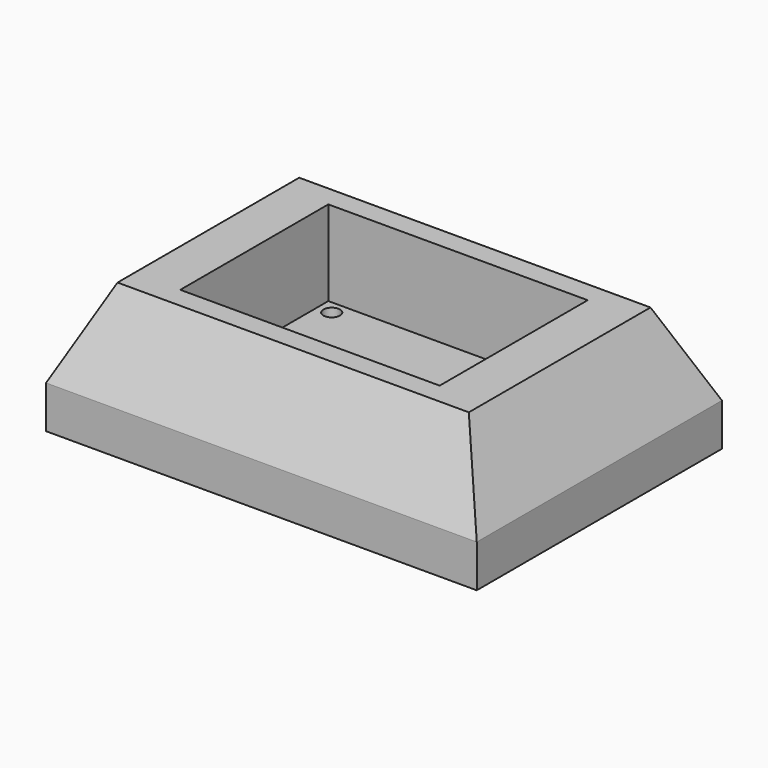
from build123d import *

# Parameters (mm, degrees)
F0_W      = 128.5392045975
F0_H      = 91.4615094662
F1_DEPTH  = 12.7
F1_FACE_W = 128.5392045975
F1_FACE_H = 91.4615094662
F2_DEPTH  = 25.4
F2_TAPER  = 25
F3_W      = 128.0312045975
F3_H      = 90.9535094662
F4_DEPTH  = 0.508
F5_W      = 77.4115473032
F5_H      = 55.2224069834
F6_DEPTH  = 25.4
F7_R      = 2.4747052008
F8_DEPTH  = 45.573990792


with BuildPart() as f1:
    # F0 (on Top) → F1 (new body)
    with BuildSketch(Plane.XY):
        Rectangle(F0_W, F0_H)
    extrude(amount=F1_DEPTH)

    # F1_face (on face) → F2 (join)
    with BuildSketch(Plane.XY.offset(12.7)):
        Rectangle(F1_FACE_W, F1_FACE_H)
    extrude(amount=F2_DEPTH, taper=F2_TAPER)

    # F3 (on face) → F4 (cut)
    with BuildSketch(Plane(origin=(0, 0, 0), x_dir=(1, 0, 0), z_dir=(0, 0, -1))):
        Rectangle(F3_W, F3_H)
    extrude(amount=-F4_DEPTH, mode=Mode.SUBTRACT)

    # F5 (on face) → F6 (cut)
    with BuildSketch(Plane.XY.offset(38.1)):
        Rectangle(F5_W, F5_H)
    extrude(amount=-F6_DEPTH, mode=Mode.SUBTRACT)

    # F7 (on face) → F8 (cut)
    with BuildSketch(Plane.XY.offset(12.7)):
        with Locations((-34.4637036324, 23.5804095864)):
            Circle(F7_R)
    extrude(amount=-F8_DEPTH, mode=Mode.SUBTRACT)


solid = f1.part
